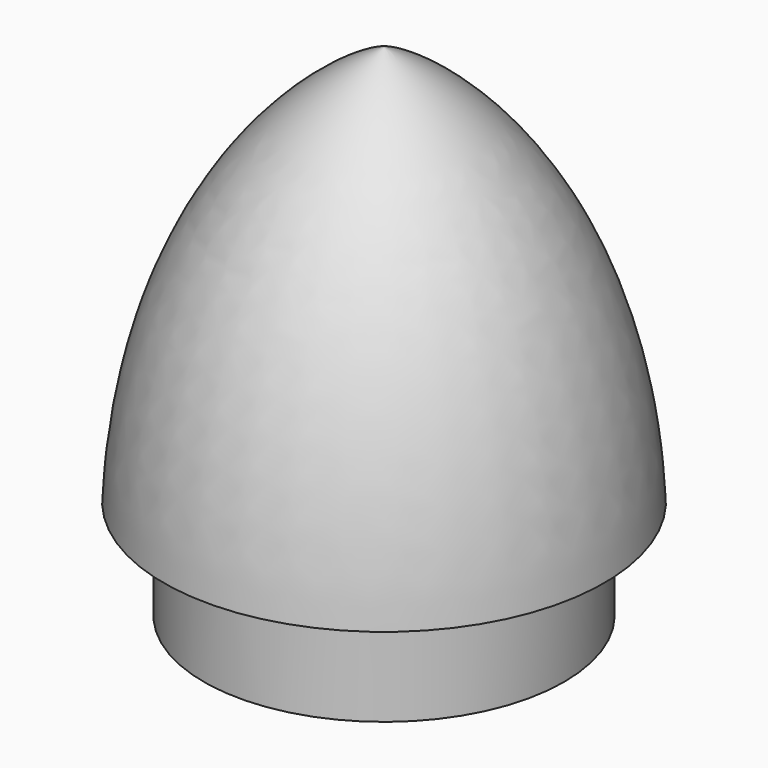
from build123d import *

# Parameters (mm, degrees)
F0_R     = 9
F3_DEPTH = 5


with BuildPart() as f2:
    # F1 (on Front) → F2 (revolve)
    with BuildSketch(Plane.XZ):
        with BuildLine():
            Line((-11, 0), (0, 0))
            Line((0, 0), (0, 20))
            add(Edge.make_bspline(
                [(-11, 0), (-10.358537, 13.257047), (-3.005518, 18.792465), (0, 20)],
                knots=[0, 0, 0, 0, 22.825424, 22.825424, 22.825424, 22.825424], degree=3))
        make_face()
    revolve(axis=Axis((0, 0, 10), (0, 0, 1)))

    # F0 (on Top) → F3 (join)
    with BuildSketch(Plane.XY):
        Circle(F0_R)
    extrude(amount=-F3_DEPTH)


solid = f2.part
